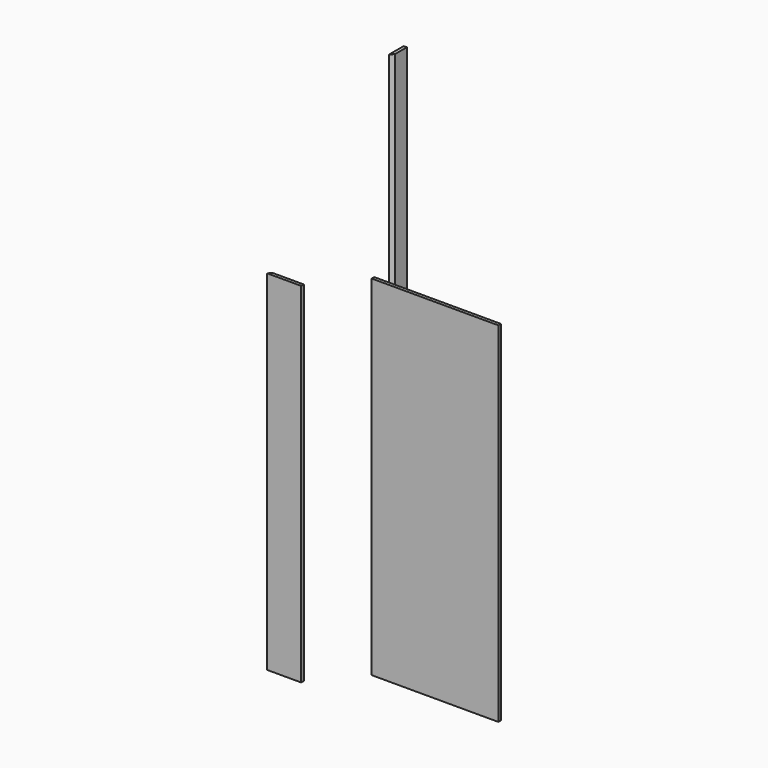
from build123d import *

# Parameters (mm, degrees)
F0_W     = 203.2
F0_H     = 2082.8
F1_DEPTH = 19.05
F3_DEPTH = 2082.8
F4_W     = 755.65
F4_H     = 2082.8
F5_DEPTH = 19.05
F6_W     = 107.95
F6_H     = 2082.8
F7_DEPTH = 19.05
F9_DEPTH = 2082.8


with BuildPart() as f1:
    # F0 (on Front) → F1 (new body)
    with BuildSketch(Plane.XZ):
        with Locations((-101.6, 680.395788)):
            Rectangle(F0_W, F0_H)
    extrude(amount=F1_DEPTH)

    # F2 (on face) → F3 (cut)
    with BuildSketch(Plane.XY.offset(1721.795788)):
        Polygon((-203.2, 0), (-203.2, -19.05), (-184.15, 0), align=None)
    extrude(amount=-F3_DEPTH, mode=Mode.SUBTRACT)


with BuildPart() as f5:
    # F4 (on Front) → F5 (new body)
    with BuildSketch(Plane.XZ):
        with Locations((797.56523, 855.760932)):
            Rectangle(F4_W, F4_H)
    extrude(amount=F5_DEPTH)


with BuildPart() as f7:
    # F6 (on Right) → F7 (new body)
    with BuildSketch(Plane.YZ):
        with Locations((690.763086, 1629.361022)):
            Rectangle(F6_W, F6_H)
    extrude(amount=F7_DEPTH)

    # F8 (on face) → F9 (cut)
    with BuildSketch(Plane.XY.offset(2670.761022)):
        Polygon((19.05, 636.788086), (19.05, 655.838086), (0, 636.788086), align=None)
    extrude(amount=-F9_DEPTH, mode=Mode.SUBTRACT)


solid = Compound([f1.part, f5.part, f7.part])
